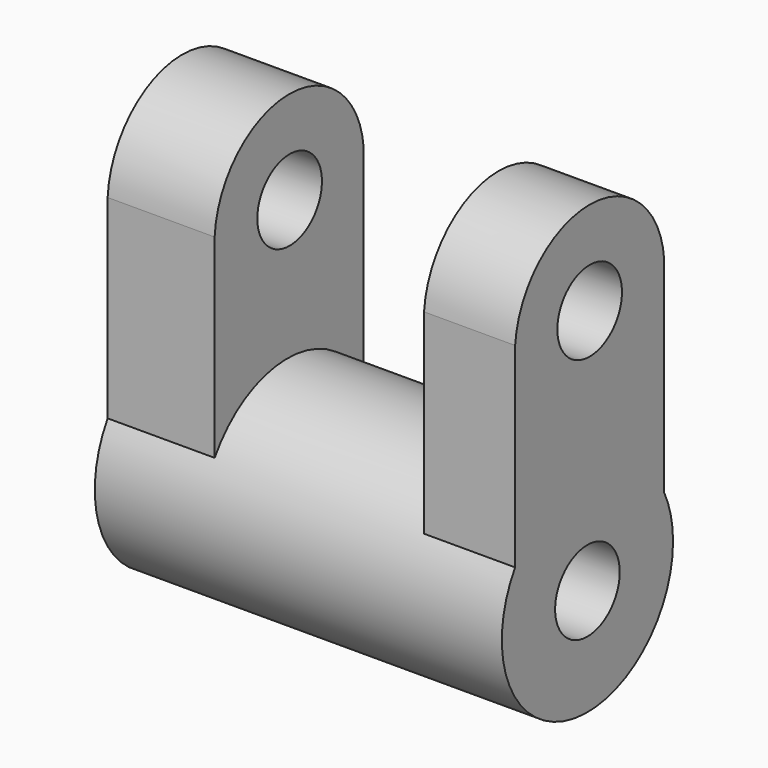
from build123d import *

# Parameters (mm, degrees)
F0_R          = 19.8744550468
F1_DEPTH      = 37.0859950781
F1_DEPTH_BACK = 38.5084822774
F3_D          = 15
F6_DEPTH      = 19.8722034693
F7_DEPTH      = 16.9176664203
F9_DEPTH      = 25
F11_DEPTH     = 25
F13_D         = 15


with BuildPart() as f1:
    # F0 (on Right) → F1 (new body, two sides)
    with BuildSketch(Plane.YZ) as f1_sk:
        with Locations((-43.2518944144, 28.8682542741)):
            Circle(F0_R)
    extrude(amount=F1_DEPTH)
    extrude(f1_sk.sketch, amount=-F1_DEPTH_BACK)

    # F3 (through all)
    with Locations(Plane(origin=(-38.5084822774, 0, 0), x_dir=(0, -1, 0), z_dir=(-1, 0, 0))):
        with Locations((43.2518944144, 28.8682542741)):
            Hole(F3_D / 2)

    # F4 (on face) → F6 (join)
    with BuildSketch(Plane(origin=(-38.5084822774, 0, 0), x_dir=(0, -1, 0), z_dir=(-1, 0, 0))):
        with BuildLine():
            Line((25.5346700703, 92.9932743311), (25.5346700703, 37.8734708149))
            ThreePointArc((25.5346700703, 37.8734708149), (42.4117718159, 48.7249447694), (60.1451545954, 39.3378160541))
            Line((60.1451545954, 39.3378160541), (60.1451545954, 92.9932743311))
            Line((60.1451545954, 92.9932743311), (25.5346700703, 92.9932743311))
        make_face()
    extrude(amount=-F6_DEPTH)

    # F5 (on face) → F7 (join)
    with BuildSketch(Plane.YZ.offset(37.0859950781)):
        with BuildLine():
            ThreePointArc((-60.0371137261, 39.51017027), (-42.1917249238, 48.7144126948), (-25.4284662629, 37.6613977583))
            Line((-25.4284662629, 37.6613977583), (-25.4284662629, 92.7953794599))
            Line((-25.4284662629, 92.7953794599), (-60.0371137261, 92.7953794599))
            Line((-60.0371137261, 92.7953794599), (-60.0371137261, 39.51017027))
        make_face()
    extrude(amount=-F7_DEPTH)

    # F8 (on face) → F9 (cut)
    with BuildSketch(Plane(origin=(-38.5084822774, 0, 0), x_dir=(0, -1, 0), z_dir=(-1, 0, 0))):
        with BuildLine():
            ThreePointArc((25.5346700703, 75.9382109612), (43.0672230686, 91.7866784097), (60.1451545954, 75.4493411154))
            Line((60.1451545954, 75.4493411154), (60.1451545954, 92.9932743311))
            Line((60.1451545954, 92.9932743311), (25.5346700703, 92.9932743311))
            Line((25.5346700703, 92.9932743311), (25.5346700703, 75.9382109612))
        make_face()
    extrude(amount=-F9_DEPTH, mode=Mode.SUBTRACT)

    # F10 (on face) → F11 (cut)
    with BuildSketch(Plane(origin=(20.1683286577, 0, 0), x_dir=(0, -1, 0), z_dir=(-1, 0, 0))):
        with BuildLine():
            ThreePointArc((25.4284662629, 75.7083371282), (42.6920558049, 91.7887475509), (60.0371137261, 75.7962465286))
            Line((60.0371137261, 75.7962465286), (60.0371137261, 92.7953794599))
            Line((60.0371137261, 92.7953794599), (25.4284662629, 92.7953794599))
            Line((25.4284662629, 92.7953794599), (25.4284662629, 75.7083371282))
        make_face()
    extrude(amount=-F11_DEPTH, mode=Mode.SUBTRACT)

    # F13 (through all)
    with Locations(Plane.YZ.offset(37.0859950781)):
        with Locations((-42.7361378145, 74.4343039762)):
            Hole(F13_D / 2)


solid = f1.part
